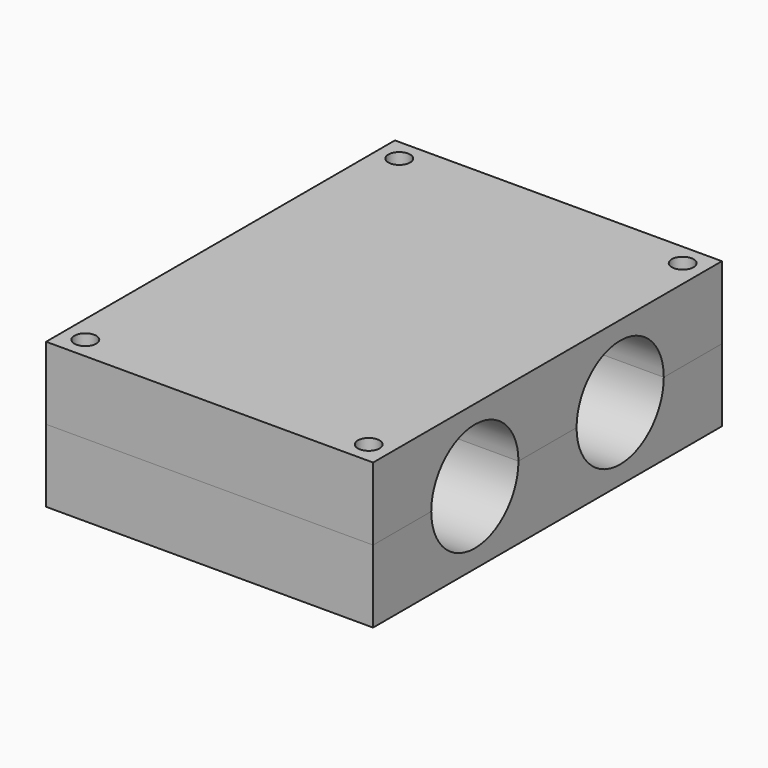
from build123d import *

# Parameters (mm, degrees)
F0_W      = 60
F0_H      = 10
F1_DEPTH  = 22.5
F1_FACE_W = 45
F1_FACE_H = 60
F2_DEPTH  = 10
F3_R      = 7.5
F4_DEPTH  = 45.001
F5_R      = 1.5
F6_DEPTH  = 20.001


with BuildPart() as f1:
    # F0 (on Right) → F1 (new body, symmetric)
    with BuildSketch(Plane.YZ):
        with Locations((0, 5)):
            Rectangle(F0_W, F0_H)
    extrude(amount=F1_DEPTH, both=True)


with BuildPart() as f2:
    # F1_face (on face) → F2 (new body)
    with BuildSketch(Plane(origin=(0, 0, 0), x_dir=(1, 0, 0), z_dir=(0, 0, -1))):
        Rectangle(F1_FACE_W, F1_FACE_H)
    extrude(amount=F2_DEPTH)


with BuildPart() as f4_tool:
    # F3 (on face) → F4 (new body, through all)
    with BuildSketch(Plane.YZ.offset(22.5)):
        with Locations((-12.5, 0)):
            Circle(F3_R)
        with Locations((12.5, 0)):
            Circle(F3_R)
    extrude(amount=-F4_DEPTH)


with BuildPart() as f1_1:
    add(f1.part)

    # F4: cut by f4_tool
    add(f4_tool.part, mode=Mode.SUBTRACT)


with BuildPart() as f2_1:
    add(f2.part)

    # F4: cut by f4_tool
    add(f4_tool.part, mode=Mode.SUBTRACT)


with BuildPart() as f6_tool:
    # F5 (on face) → F6 (new body, through all)
    with BuildSketch(Plane(origin=(0, 0, -10), x_dir=(1, 0, 0), z_dir=(0, 0, -1))):
        with Locations((19.5, 27)):
            Circle(F5_R)
        with Locations((-19.5, 27)):
            Circle(F5_R)
        with Locations((19.5, -27)):
            Circle(F5_R)
        with Locations((-19.5, -27)):
            Circle(F5_R)
    extrude(amount=-F6_DEPTH)


with BuildPart() as f1_2:
    add(f1_1.part)

    # F6: cut by f6_tool
    add(f6_tool.part, mode=Mode.SUBTRACT)


with BuildPart() as f2_2:
    add(f2_1.part)

    # F6: cut by f6_tool
    add(f6_tool.part, mode=Mode.SUBTRACT)


solid = Compound([f1_2.part, f2_2.part])
